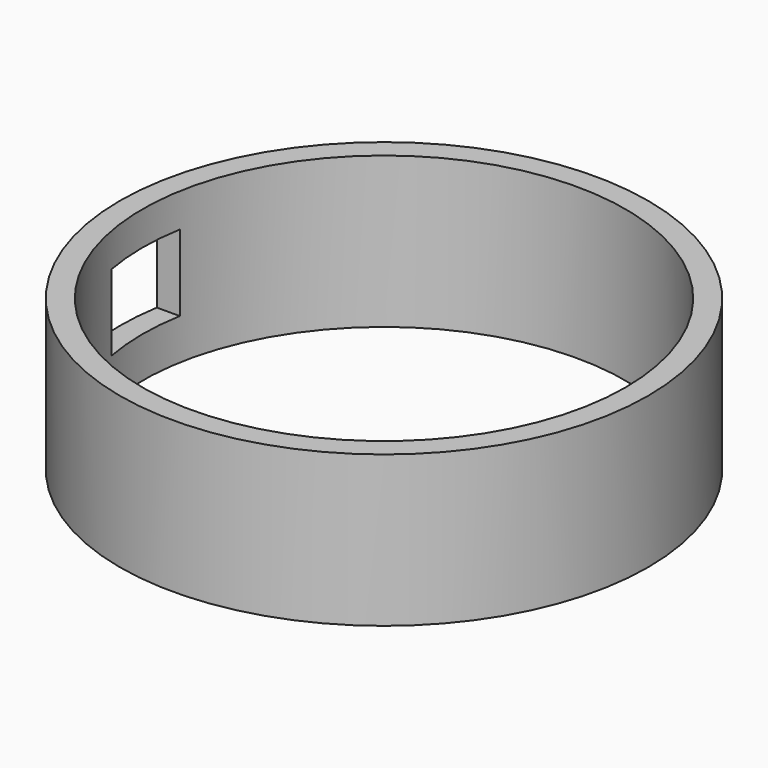
from build123d import *

# Parameters (mm, degrees)
F0_R     = 17.5
F0_R_2   = 16
F1_DEPTH = 10
F2_W     = 5.6790858507
F2_H     = 2.5240386603
F2_H_2   = 1.5144229401
F2_H_3   = 1.0096157202
F3_DEPTH = 25


with BuildPart() as f1:
    # F0 (on Top) → F1 (new body)
    with BuildSketch(Plane.XY):
        Circle(F0_R)
        Circle(F0_R_2, mode=Mode.SUBTRACT)
    extrude(amount=F1_DEPTH)

    # F2 (on Right) → F3 (cut)
    with BuildSketch(Plane.YZ):
        with Locations((-0.0582132488, 6.4953924739)):
            Rectangle(F2_W, F2_H)
        with Locations((-0.0582132488, 3.4665459534)):
            Rectangle(F2_W, F2_H_2)
        with Locations((-0.0582132488, 4.7285652836)):
            Rectangle(F2_W, F2_H_3)
    extrude(amount=-F3_DEPTH, mode=Mode.SUBTRACT)


solid = f1.part
